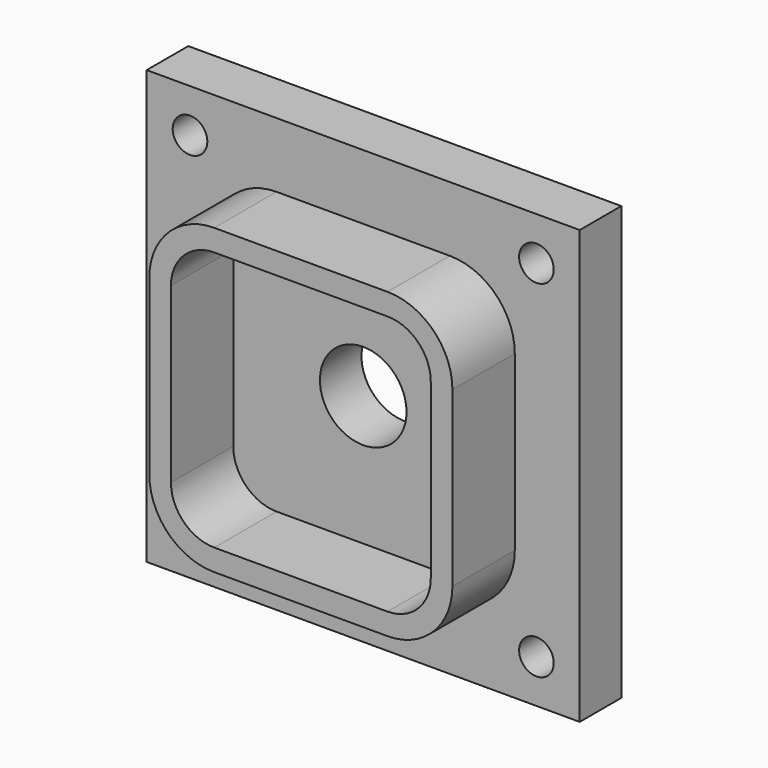
from build123d import *

# Parameters (mm, degrees)
F0_W     = 100
F0_H     = 100
F0_R     = 4
F1_DEPTH = 12
F3_DEPTH = 18
F5_DEPTH = 18
F6_R     = 10
F7_DEPTH = 30


with BuildPart() as f1:
    # F0 (on Front) → F1 (new body)
    with BuildSketch(Plane.XZ):
        Rectangle(F0_W, F0_H)
        with Locations((-40, -40)):
            Circle(F0_R, mode=Mode.SUBTRACT)
        with Locations((40, -40)):
            Circle(F0_R, mode=Mode.SUBTRACT)
        with Locations((-40, 40)):
            Circle(F0_R, mode=Mode.SUBTRACT)
        with Locations((40, 40)):
            Circle(F0_R, mode=Mode.SUBTRACT)
    extrude(amount=F1_DEPTH)

    # F2 (on face) → F3 (join)
    with BuildSketch(Plane.XZ.offset(12)):
        with BuildLine():
            Line((20, 35), (-20, 35))
            ThreePointArc((-20, 35), (-30.606602, 30.606602), (-35, 20))
            Line((-35, 20), (-35, -20))
            ThreePointArc((-35, -20), (-30.606602, -30.606602), (-20, -35))
            Line((-20, -35), (20, -35))
            ThreePointArc((20, -35), (30.606602, -30.606602), (35, -20))
            Line((35, -20), (35, 20))
            ThreePointArc((35, 20), (30.606602, 30.606602), (20, 35))
        make_face()
    extrude(amount=F3_DEPTH)

    # F4 (on face) → F5 (cut)
    with BuildSketch(Plane.XZ.offset(30)):
        with BuildLine():
            Line((20, 30), (-20, 30))
            ThreePointArc((-20, 30), (-27.071068, 27.071068), (-30, 20))
            Line((-30, 20), (-30, -20))
            ThreePointArc((-30, -20), (-27.071068, -27.071068), (-20, -30))
            Line((-20, -30), (20, -30))
            ThreePointArc((20, -30), (27.071068, -27.071068), (30, -20))
            Line((30, -20), (30, 20))
            ThreePointArc((30, 20), (27.071068, 27.071068), (20, 30))
        make_face()
    extrude(amount=-F5_DEPTH, mode=Mode.SUBTRACT)

    # F6 (on face) → F7 (cut)
    with BuildSketch(Plane.XZ.offset(12)):
        Circle(F6_R)
    extrude(amount=-F7_DEPTH, mode=Mode.SUBTRACT)


solid = f1.part
